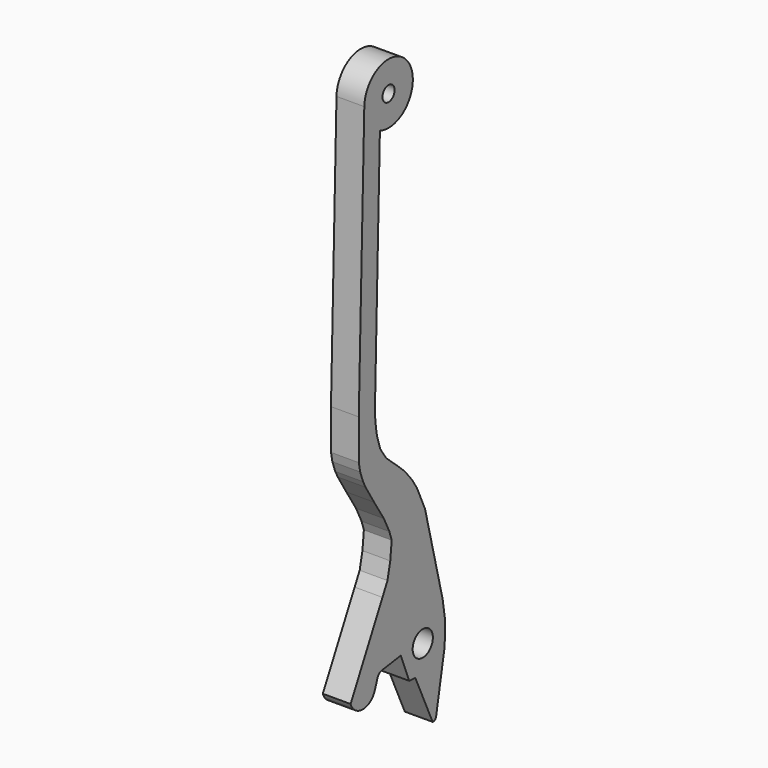
from build123d import *

# Parameters (mm, degrees)
F0_R     = 3.96875
F0_R_2   = 2.38125
F1_DEPTH = 8.73125


with BuildPart() as f1:
    # F0 (on Right) → F1 (new body)
    with BuildSketch(Plane.YZ):
        with BuildLine():
            Line((-22.736892, -31.577672), (-35.235297, -55.964332))
            ThreePointArc((-35.235297, -55.964332), (-30.499933, -59.394618), (-25.721207, -56.025002))
            Line((-25.721207, -56.025002), (-24.698675, -53.098091))
            ThreePointArc((-24.698675, -53.098091), (-23.925963, -52.04458), (-22.696215, -51.603342))
            Line((-22.696215, -51.603342), (-15.564624, -50.567816))
            Line((-15.564624, -50.567816), (-12.210813, -58.936424))
            Line((-12.210813, -58.936424), (-9.838342, -59.075984))
            Line((-9.838342, -59.075984), (-3.050189, -73.998983))
            ThreePointArc((-3.050189, -73.998983), (-2.184095, -73.854526), (-1.694621, -73.125553))
            Line((-1.694621, -73.125553), (1.665691, -55.08993))
            Line((1.665691, -55.08993), (1.88276, -48.089417))
            Line((1.88276, -48.089417), (0.851676, -41.523042))
            Line((0.851676, -41.523042), (-6.040303, -13.873727))
            Line((-6.040303, -13.873727), (-9.214954, -6.818946))
            Line((-9.214954, -6.818946), (-11.141453, -3.779963))
            Line((-11.141453, -3.779963), (-14.017633, -0.252573))
            Line((-14.017633, -0.252573), (-16.962079, 2.475717))
            Line((-16.962079, 2.475717), (-21.24312, 6.295724))
            Line((-21.24312, 6.295724), (-23.596026, 9.785942))
            Line((-23.596026, 9.785942), (-24.844181, 13.801741))
            Line((-24.844181, 13.801741), (-25.278321, 16.243781))
            Line((-25.278321, 16.243781), (-25.719542, 20.384255))
            Line((-25.719542, 20.384255), (-23.745787, 97.816555))
            ThreePointArc((-23.745787, 97.816555), (-12.428249, 112.012291), (-29.864892, 106.955705))
            Line((-29.864892, 106.955705), (-32.02825, 22.085118))
            Line((-32.02825, 22.085118), (-32.02825, 12.05924))
            Line((-32.02825, 12.05924), (-32.02825, 9.448508))
            Line((-32.02825, 9.448508), (-31.483401, 6.63652))
            Line((-31.483401, 6.63652), (-30.360282, 3.50184))
            Line((-30.360282, 3.50184), (-29.344997, 1.543791))
            Line((-29.344997, 1.543791), (-26.009063, -3.943581))
            Line((-26.009063, -3.943581), (-22.189659, -10.011116))
            Line((-22.189659, -10.011116), (-20.014049, -14.483204))
            Line((-20.014049, -14.483204), (-19.119631, -17.238976))
            Line((-19.119631, -17.238976), (-19.675621, -22.726347))
            Line((-19.675621, -22.726347), (-20.764625, -27.72942))
            Line((-20.764625, -27.72942), (-22.736892, -31.577672))
        make_face()
        with Locations((-6.922542, -50.719291)):
            Circle(F0_R, mode=Mode.SUBTRACT)
        with Locations((-20.342984, 106.712991)):
            Circle(F0_R_2, mode=Mode.SUBTRACT)
    extrude(amount=F1_DEPTH)


solid = f1.part
